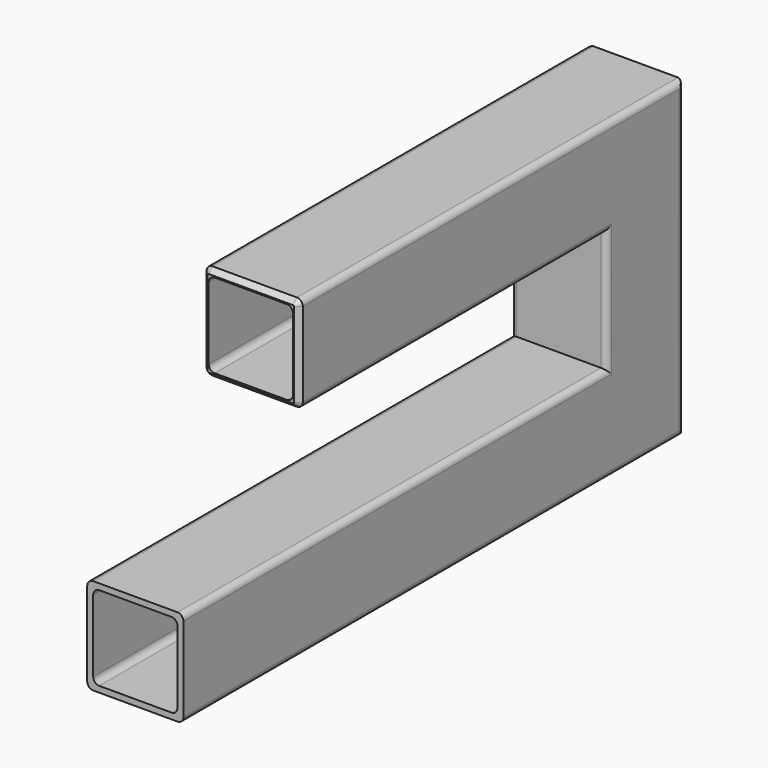
from build123d import *

# Parameters (mm, degrees)
F3_SIZE = 5.08


with BuildPart() as f2:
    # F2: sweep along a path in F1
    with BuildLine(Plane.YZ) as f2_path:
        Line((0, 0), (609.6, 0))
        Line((609.6, 0), (609.6, 228.6))
        Line((609.6, 228.6), (152.4, 228.6))
    # F0 (on Front) → F2 (sweep)
    with BuildSketch(Plane.XZ):
        with BuildLine():
            ThreePointArc((50.8, 44.45), (48.9401280605, 48.9401280605), (44.45, 50.8))
            Line((44.45, 50.8), (-44.45, 50.8))
            ThreePointArc((-44.45, 50.8), (-48.9401280605, 48.9401280605), (-50.8, 44.45))
            Line((-50.8, 44.45), (-50.8, -44.45))
            ThreePointArc((-50.8, -44.45), (-48.9401280605, -48.9401280605), (-44.45, -50.8))
            Line((-44.45, -50.8), (44.45, -50.8))
            ThreePointArc((44.45, -50.8), (48.9401280605, -48.9401280605), (50.8, -44.45))
            Line((50.8, -44.45), (50.8, 44.45))
        make_face()
        with BuildLine():
            Line((-38.1, 44.45), (38.1, 44.45))
            ThreePointArc((38.1, 44.45), (42.5901280605, 42.5901280605), (44.45, 38.1))
            Line((44.45, 38.1), (44.45, -38.1))
            ThreePointArc((44.45, -38.1), (42.5901280605, -42.5901280605), (38.1, -44.45))
            Line((38.1, -44.45), (-38.1, -44.45))
            ThreePointArc((-38.1, -44.45), (-42.5901280605, -42.5901280605), (-44.45, -38.1))
            Line((-44.45, -38.1), (-44.45, 38.1))
            ThreePointArc((-44.45, 38.1), (-42.5901280605, 42.5901280605), (-38.1, 44.45))
        make_face(mode=Mode.SUBTRACT)
    sweep(path=f2_path.line, transition=Transition.RIGHT)

    # F3
    f3_edges = [f2.edges().sort_by_distance(p)[0] for p in [
        (0, 152.4, 279.4),
    ]]
    chamfer(f3_edges, length=F3_SIZE)


solid = f2.part
